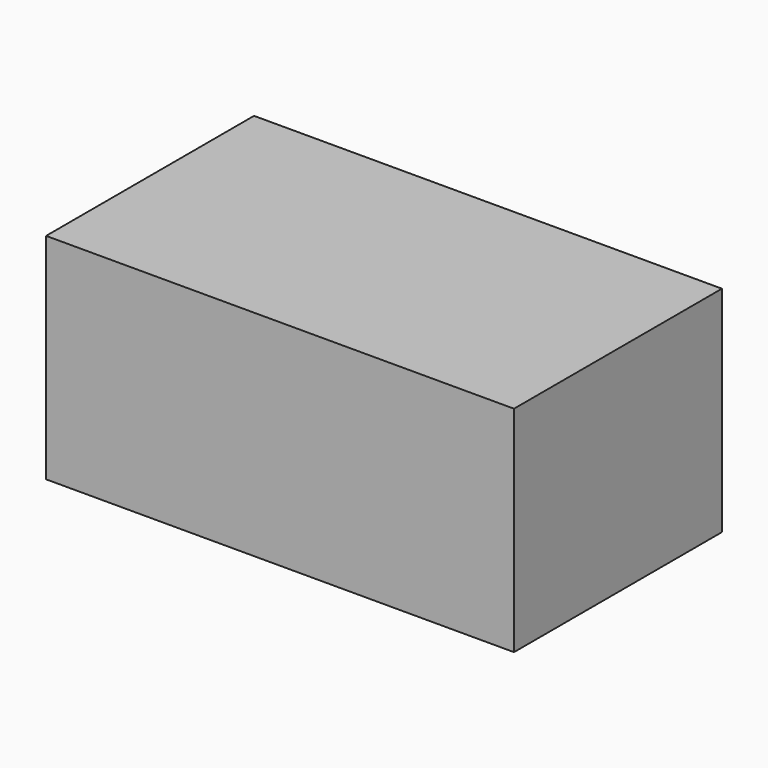
from build123d import *

# Parameters (mm, degrees)
F0_R     = 27.8864811647
F1_DEPTH = 25
F0_W     = 45.0044758618
F0_H     = 20.6155590713


with BuildPart() as f1:
    # F0 (on Front) → F1 (new body)
    with BuildSketch(Plane.XZ):
        with Locations((-136.4746242762, 8.3838962018)):
            Circle(F0_R)
    extrude(amount=F1_DEPTH)


with BuildPart() as f1b:
    # F0 (on Front) → F1, piece 2 (new body)
    with BuildSketch(Plane.XZ):
        with Locations((-69.5523750037, 61.4560414106)):
            Rectangle(F0_W, F0_H)
    extrude(amount=F1_DEPTH)


solid = f1b.part
